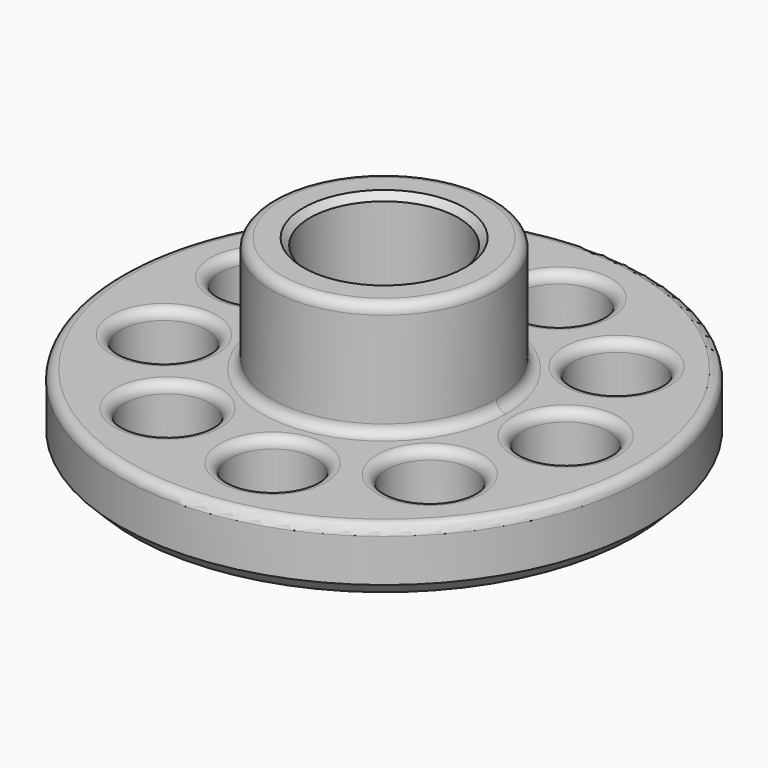
from build123d import *

# Parameters (mm, degrees)
SKETCH_R           = 80
PAD_DEPTH          = 20
SKETCH001_R        = 34
PAD001_DEPTH       = 35
SKETCH002_R        = 22.5
POCKET_DEPTH       = 25
SKETCH003_W        = 17
SKETCH003_H        = 25
POCKET001_DEPTH    = 10.4
SKETCH005_R        = 13
POCKET002_DEPTH    = 520.726241
POLARPATTERN_COUNT = 9
SKETCH006_R        = 2
POCKET003_DEPTH    = 20
CHAMFER_SIZE       = 4
FILLET_R           = 3
CHAMFER001_SIZE    = 2
CHAMFER002_SIZE    = 1


with BuildPart() as part:
    # Sketch → Pad (new body)
    with BuildSketch(Plane.XY):
        Circle(SKETCH_R)
    extrude(amount=PAD_DEPTH)

    # Sketch001 → Pad001 (new body)
    with BuildSketch(Plane.XY.offset(20)):
        Circle(SKETCH001_R)
    extrude(amount=PAD001_DEPTH)

    # Sketch002 → Pocket (cut)
    with BuildSketch(Plane.XY.offset(55)):
        Circle(SKETCH002_R)
    extrude(amount=-POCKET_DEPTH, mode=Mode.SUBTRACT)

    # Sketch003 → Pocket001 (cut)
    with BuildSketch(Plane.XY.offset(30)):
        with Locations((0, 5.8)):
            Rectangle(SKETCH003_W, SKETCH003_H)
    extrude(amount=-POCKET001_DEPTH, mode=Mode.SUBTRACT)

    # Sketch005 → Pocket002 (cut, through all)
    with BuildSketch(Plane(origin=(0, 0, 0), x_dir=(1, 0, 0), z_dir=(0, 0, -1))):
        with Locations((55, 0)):
            Circle(SKETCH005_R)
    pocket002 = extrude(amount=-POCKET002_DEPTH, mode=Mode.SUBTRACT)

    # PolarPattern: Pocket002 ×9 about axis
    polarpattern_axis = Axis((0, 0, 0), (0, 0, -1))
    for i in range(1, POLARPATTERN_COUNT):
        add(pocket002.rotate(polarpattern_axis, i * 360 / POLARPATTERN_COUNT), mode=Mode.SUBTRACT)

    # Sketch006 → Pocket003 (cut)
    with BuildSketch(Plane.XZ.offset(-18.3)):
        with Locations((0, 24.5)):
            Circle(SKETCH006_R)
    extrude(amount=-POCKET003_DEPTH, mode=Mode.SUBTRACT)

    # Chamfer
    chamfer_edges = [part.edges().sort_by_distance(p)[0] for p in [
        (-80, 0, 0),
        (42, 0, 0),
        (32.173867, 26.99708, 0),
        (7.293223, 41.361926, 0),
        (-21, 36.373067, 0),
        (-39.46709, 14.364846, 0),
        (-39.46709, -14.364846, 0),
        (-21, -36.373067, 0),
        (7.293223, -41.361926, 0),
        (32.173867, -26.99708, 0),
    ]]
    chamfer(chamfer_edges, length=CHAMFER_SIZE)

    # Fillet
    fillet_edges = [part.edges().sort_by_distance(p)[0] for p in [
        (-80, 0, 20),
        (32.173867, -26.99708, 20),
        (42, 0, 20),
        (32.173867, 26.99708, 20),
        (7.293223, -41.361926, 20),
        (-34, 0, 20),
        (-21, -36.373067, 20),
        (-39.46709, -14.364846, 20),
        (-39.46709, 14.364846, 20),
        (-21, 36.373067, 20),
        (7.293223, 41.361926, 20),
        (-34, 0, 55),
    ]]
    fillet(fillet_edges, radius=FILLET_R)

    # Chamfer001
    chamfer001_edges = [part.edges().sort_by_distance(p)[0] for p in [
        (-22.5, 0, 55),
    ]]
    chamfer(chamfer001_edges, length=CHAMFER001_SIZE)

    # Chamfer002
    chamfer002_edges = [part.edges().sort_by_distance(p)[0] for p in [
        (8.5, 5.8, 30),
        (0, -6.7, 30),
        (-8.5, 5.8, 30),
        (0, 18.3, 30),
    ]]
    chamfer(chamfer002_edges, length=CHAMFER002_SIZE)


solid = part.part
